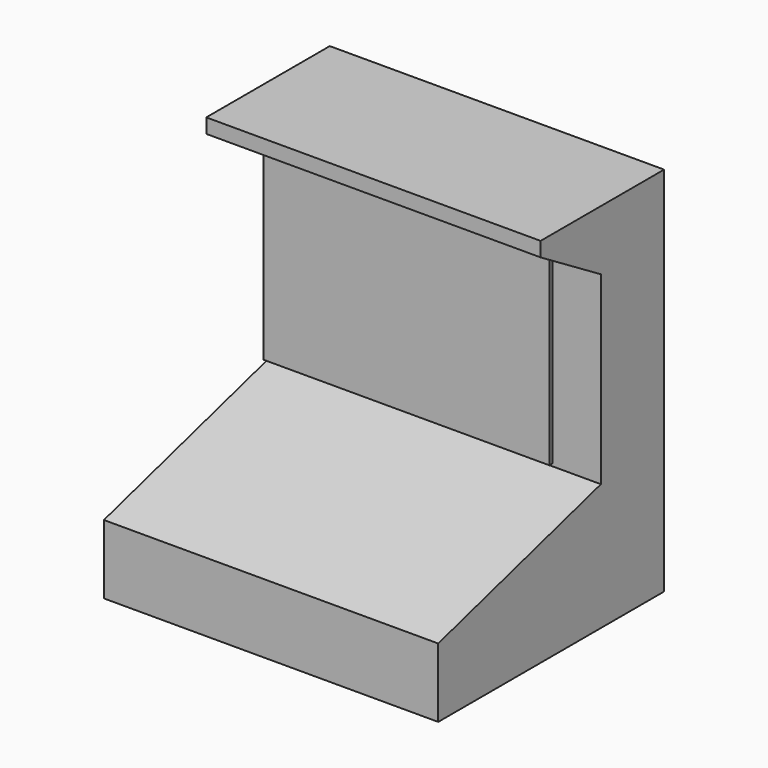
from build123d import *

# Parameters (mm, degrees)
F1_DEPTH = 297
F2_W     = 5.0483439118
F2_H     = 164.0711911023
F3_DEPTH = 254
F5_DEPTH = 5


with BuildPart() as f1:
    # F0 (on Right) → F1 (new body)
    with BuildSketch(Plane.YZ):
        Polygon((-191.0997629166, -150.2734897286), (59.7248338163, -150.2734897286), (59.7248338163, 179.7265102714), (-77.4344205856, 179.7265102714), (-77.4344205856, 166.8107658625), (-10.498162359, 126.3964027166), (-10.498162359, -37.7868525684), (-191.0997629166, -88.9362543821), align=None)
    extrude(amount=F1_DEPTH)


with BuildPart() as f3:
    # F2 (on Right) → F3 (new body)
    with BuildSketch(Plane.YZ):
        with Locations((-11.415113537, 46.4384673701)):
            Rectangle(F2_W, F2_H)
    extrude(amount=F3_DEPTH)


with BuildPart() as f5:
    # F4 (on Top) → F5 (new body)
    with BuildSketch(Plane.XY):
        with BuildLine():
            add(Edge.make_bspline(
                [(-226.1558055878, 281.7602455616), (-226.1558055878, 298.2186932712), (-244.9058055878, 289.9894694164), (-263.6558055878, 281.7602455616), (-244.9058055878, 273.5310217068), (-226.1558055878, 265.301797852), (-226.1558055878, 281.7602455616)],
                knots=[0, 0, 0, 2.0943951024, 2.0943951024, 4.1887902048, 4.1887902048, 6.2831853072, 6.2831853072, 6.2831853072], degree=2, weights=[1, 0.5, 1, 0.5, 1, 0.5, 1]))
        make_face()
    extrude(amount=F5_DEPTH)


with BuildPart() as f5_1:
    # F7: moved
    add(f5.part.moved(Location((150, 0, 0))))


solid = Compound([f1.part, f3.part, f5_1.part])
